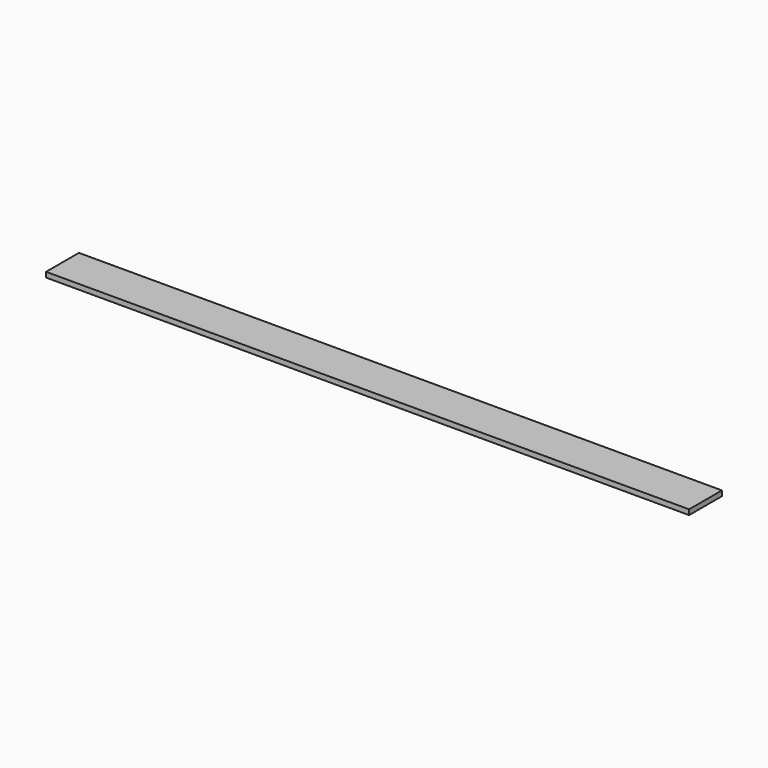
from build123d import *

# Parameters (mm, degrees)
F0_W     = 50.8
F0_H     = 796.29
F1_DEPTH = 6.35
F2_ANGLE = 90


with BuildPart() as f1:
    # F0 (on Right) → F1 (new body)
    with BuildSketch(Plane.YZ):
        with Locations((25.4, 398.145)):
            Rectangle(F0_W, F0_H)
    extrude(amount=F1_DEPTH)


with BuildPart() as f1_1:
    # F2: moved
    add(f1.part.rotate(Axis((0, 25.4, 0), (0, 1, 0)), F2_ANGLE))


solid = f1_1.part
